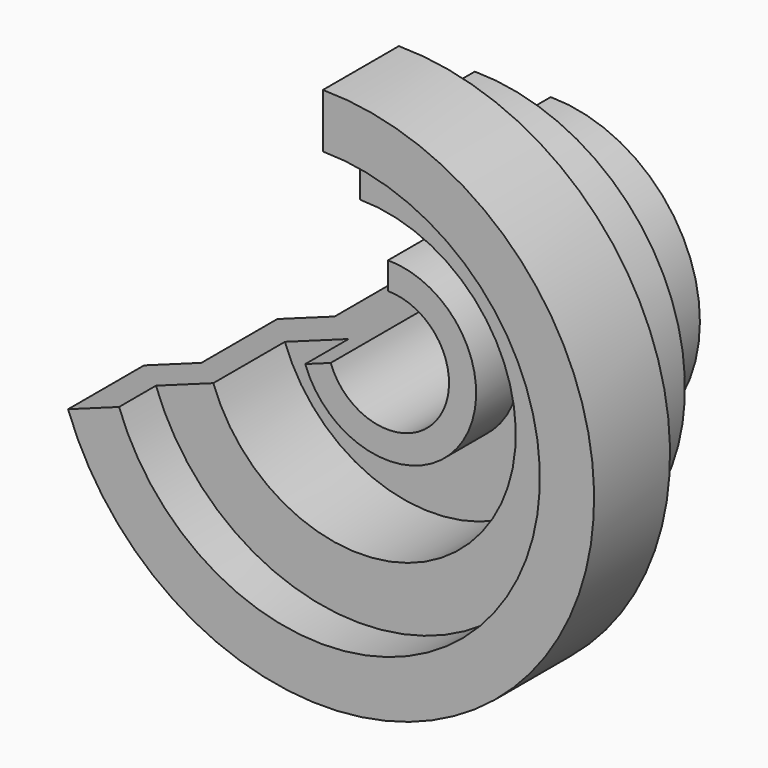
from build123d import *

# Parameters (mm, degrees)
REVOLUTION_ANGLE = 250


with BuildPart() as part:
    # Sketch → Revolution (revolve)
    with BuildSketch(Plane.YZ):
        Polygon((-75, 22.5), (0, 22.5), (0, 55), (-35, 55), (-35, 77.5), (-70, 77.5), (-70, 100), (-105, 100), (-105, 80), (-88, 80), (-88, 57.5), (-55, 57.5), (-55, 32.5), (-75, 32.5), align=None)
    revolve(axis=Axis((0, 0, 0), (0, 1, 0)), revolution_arc=REVOLUTION_ANGLE)


solid = part.part
